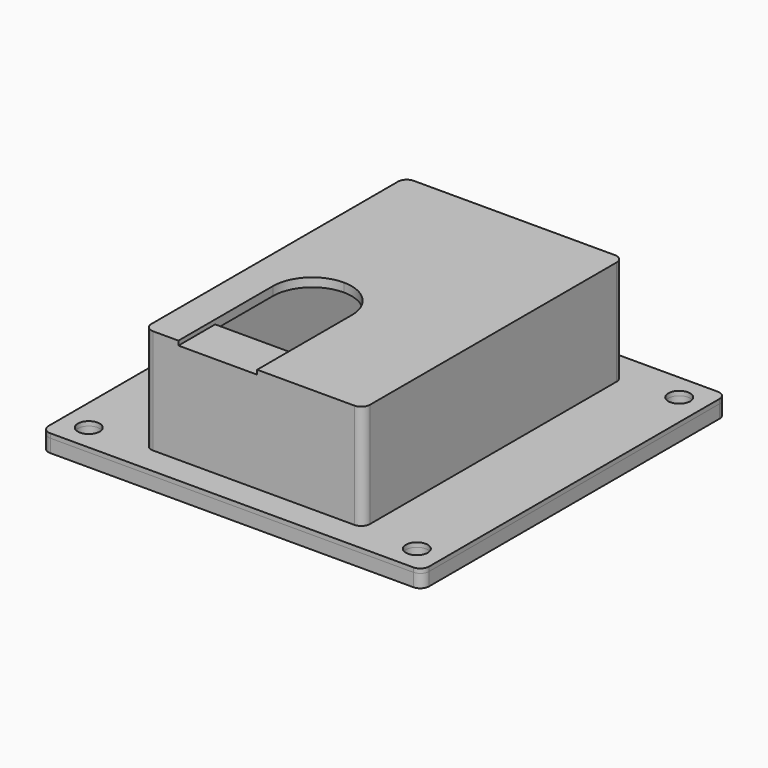
from build123d import *

# Parameters (mm, degrees)
F0_W      = 50
F0_H      = 74.5
F0_W_2    = 46
F0_H_2    = 70.5
F0_R      = 4.5
F0_R_2    = 2.5
F1_DEPTH  = 2
F2_DEPTH  = 25
F3_DEPTH  = 18.1
F4_W      = 46
F4_H      = 2
F5_DEPTH  = 3
F6_W      = 87
F6_H      = 87
F6_R      = 2.5
F6_W_2    = 50
F6_H_2    = 74.5
F6_W_3    = 46
F6_H_3    = 70.5
F7_DEPTH  = 3
F8_R      = 2
F9_DEPTH  = 1
F10_W     = 18
F10_H     = 1
F11_DEPTH = 25


with BuildPart() as f1:
    # F0 (on Top) → F1 (new body)
    with BuildSketch(Plane.XY):
        Rectangle(F0_W, F0_H)
        Rectangle(F0_W_2, F0_H_2, mode=Mode.SUBTRACT)
        Rectangle(F0_W_2, F0_H_2)
        Polygon((0.8, -26.75), (-17.2, -26.75), (-17.2, -10.25), (-17.2, -1.25), (-8.2, -1.25), (0.8, -1.25), (0.8, -10.25), align=None, mode=Mode.SUBTRACT)
        with Locations((-16, 29.35)):
            Circle(F0_R, mode=Mode.SUBTRACT)
        with Locations((16, 29.35)):
            Circle(F0_R, mode=Mode.SUBTRACT)
        with Locations((-16, 29.35)):
            Circle(F0_R)
        with Locations((-16, 29.35)):
            Circle(F0_R_2, mode=Mode.SUBTRACT)
        with Locations((16, 29.35)):
            Circle(F0_R)
        with Locations((16, 29.35)):
            Circle(F0_R_2, mode=Mode.SUBTRACT)
        with Locations((-16, 29.35)):
            Circle(F0_R_2)
        with Locations((16, 29.35)):
            Circle(F0_R_2)
        with BuildLine():
            Line((-17.2, -1.25), (-17.2, -10.25))
            ThreePointArc((-17.2, -10.25), (-14.5639610307, -3.8860389693), (-8.2, -1.25))
            Line((-8.2, -1.25), (-17.2, -1.25))
        make_face()
        with BuildLine():
            ThreePointArc((-8.2, -1.25), (-1.8360389693, -3.8860389693), (0.8, -10.25))
            Line((0.8, -10.25), (0.8, -1.25))
            Line((0.8, -1.25), (-8.2, -1.25))
        make_face()
    extrude(amount=-F1_DEPTH)

    # F0 (on Top) → F2 (join)
    with BuildSketch(Plane.XY):
        Rectangle(F0_W, F0_H)
        Rectangle(F0_W_2, F0_H_2, mode=Mode.SUBTRACT)
    extrude(amount=-F2_DEPTH)

    # F0 (on Top) → F3 (join)
    with BuildSketch(Plane.XY):
        with Locations((-16, 29.35)):
            Circle(F0_R)
        with Locations((-16, 29.35)):
            Circle(F0_R_2, mode=Mode.SUBTRACT)
        with Locations((16, 29.35)):
            Circle(F0_R)
        with Locations((16, 29.35)):
            Circle(F0_R_2, mode=Mode.SUBTRACT)
    extrude(amount=-F3_DEPTH)

    # F4 (on face) → F5 (join)
    with BuildSketch(Plane(origin=(0, -35.25, 0), x_dir=(-1, 0, 0), z_dir=(0, 1, 0))):
        with Locations((0, -20.9)):
            Rectangle(F4_W, F4_H)
    extrude(amount=F5_DEPTH)

    # F6 (on face) → F7 (join)
    with BuildSketch(Plane(origin=(0, 0, -25), x_dir=(1, 0, 0), z_dir=(0, 0, -1))):
        Rectangle(F6_W, F6_H)
        with Locations((-37.5, -37.5)):
            Circle(F6_R, mode=Mode.SUBTRACT)
        with Locations((37.5, -37.5)):
            Circle(F6_R, mode=Mode.SUBTRACT)
        with Locations((-37.5, 37.5)):
            Circle(F6_R, mode=Mode.SUBTRACT)
        Rectangle(F6_W_2, F6_H_2, mode=Mode.SUBTRACT)
        with Locations((37.5, 37.5)):
            Circle(F6_R, mode=Mode.SUBTRACT)
        Rectangle(F6_W_2, F6_H_2)
        Rectangle(F6_W_3, F6_H_3, mode=Mode.SUBTRACT)
    extrude(amount=F7_DEPTH)

    # F8
    f8_edges = [f1.edges().sort_by_distance(p)[0] for p in [
        (25, -37.25, -12.5),
        (43.5, -43.5, -26.5),
        (-43.5, -43.5, -26.5),
        (43.5, 43.5, -26.5),
        (-43.5, 43.5, -26.5),
        (-25, 37.25, -12.5),
        (25, 37.25, -12.5),
        (-25, -37.25, -12.5),
    ]]
    fillet(f8_edges, radius=F8_R)


with BuildPart() as f9:
    # F9 (new): a face of the model
    f9_faces = [f1.part.faces().sort_by_distance(p)[0] for p in [
        (0, 42.2696342007, -25),
    ]]
    extrude(f9_faces, amount=F9_DEPTH)


with BuildPart() as f1_1:
    add(f1.part)

    # F10 (on face) → F11 (cut)
    with BuildSketch(Plane.XZ.offset(37.25)):
        with Locations((-8.2, -0.5)):
            Rectangle(F10_W, F10_H)
    extrude(amount=-F11_DEPTH, mode=Mode.SUBTRACT)


solid = Compound([f9.part, f1_1.part])
